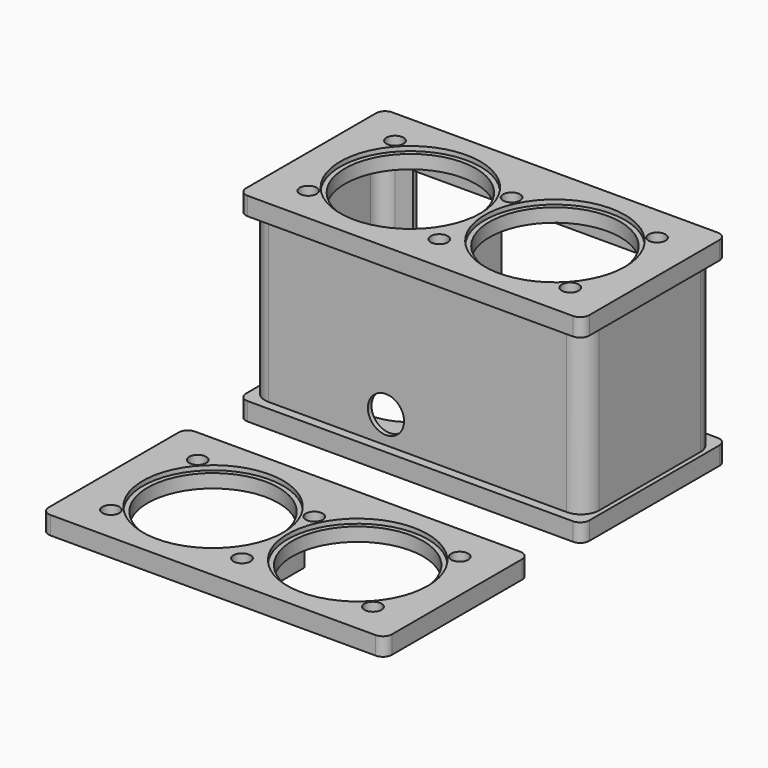
from build123d import *

# Parameters (mm, degrees)
F0_W      = 482.6
F0_H      = 254
F1_DEPTH  = 25.4
F2_W      = 12.7
F2_H      = 63.5
F3_DEPTH  = 228.6
F4_W      = 482.6
F4_H      = 254
F5_DEPTH  = 25.4
F6_R      = 25.4
F7_DEPTH  = 6.35
F9_R      = 91.948
F9_R_2    = 11.938
F10_DEPTH = 25.4
F9_R_3    = 98.552
F11_DEPTH = 6.35
F12_R     = 69.85
F12_R_2   = 6.746875
F13_DEPTH = 25.4
F15_DEPTH = 25.4
F17_DEPTH = 25.4
F18_W     = 482.6
F18_H     = 254
F18_R     = 11.938
F18_R_2   = 98.552
F19_DEPTH = 25.4
F18_R_3   = 91.948
F20_DEPTH = 19.05
F21_W     = 12.7
F21_H     = 63.5
F22_DEPTH = 25.4
F23_R     = 12.7
F23_2_R   = 12.7


with BuildPart() as f1:
    # F0 (on Top) → F1 (new body)
    with BuildSketch(Plane.XY):
        Rectangle(F0_W, F0_H)
    extrude(amount=F1_DEPTH)

    # F2 (on face) → F3 (join)
    with BuildSketch(Plane.XY.offset(25.4)):
        with BuildLine():
            Line((-209.5499999999, -114.3), (209.5500000001, -114.3))
            ThreePointArc((209.5500000001, -114.3), (227.5105122422, -106.8605122421), (234.95, -88.9))
            Line((234.95, -88.9), (234.95, 88.9))
            ThreePointArc((234.95, 88.9), (227.5105122421, 106.8605122421), (209.55, 114.3))
            Line((209.55, 114.3), (184.1499999999, 114.3))
            Line((184.1499999999, 114.3), (184.1499999999, 107.95))
            Line((184.1499999999, 107.95), (209.5500000002, 107.95))
            ThreePointArc((209.5500000002, 107.95), (223.0203841818, 102.3703841816), (228.6000000002, 88.9))
            Line((228.6000000002, 88.9), (228.5999999998, -88.9))
            ThreePointArc((228.5999999998, -88.9), (223.0203841814, -102.3703841816), (209.5499999998, -107.95))
            Line((209.5499999998, -107.95), (-209.5500000002, -107.95))
            ThreePointArc((-209.5500000002, -107.95), (-223.0203841818, -102.3703841816), (-228.6000000002, -88.9))
            Line((-228.6000000002, -88.9), (-228.5999999998, 88.9))
            ThreePointArc((-228.5999999998, 88.9), (-223.0203841814, 102.3703841816), (-209.5499999998, 107.95))
            Line((-209.5499999998, 107.95), (-184.1380936859, 107.95))
            Line((-184.1380936859, 107.95), (-184.1500000001, 114.3))
            Line((-184.1500000001, 114.3), (-209.55, 114.3))
            ThreePointArc((-209.55, 114.3), (-227.5105122422, 106.8605122422), (-234.95, 88.9))
            Line((-234.95, 88.9), (-234.95, -88.9))
            ThreePointArc((-234.95, -88.9), (-227.5105122421, -106.8605122421), (-209.5499999999, -114.3))
        make_face()
        with Locations((0, -6.35)):
            Rectangle(F2_W, F2_H)
    extrude(amount=F3_DEPTH)

    # F4 (on face) → F5 (join)
    with BuildSketch(Plane.XY.offset(254)):
        Rectangle(F4_W, F4_H)
    extrude(amount=F5_DEPTH)

    # F6 (on face) → F7 (cut)
    with BuildSketch(Plane.XZ.offset(114.3)):
        with Locations((-44.45, 63.5)):
            Circle(F6_R)
    extrude(amount=-F7_DEPTH, mode=Mode.SUBTRACT)

    # F9 (on face) → F10 (cut)
    with BuildSketch(Plane.XY.offset(279.4)):
        with Locations((-101.6, 0)):
            Circle(F9_R)
        with Locations((101.6, 0)):
            Circle(F9_R)
        with Locations((184.15, 76.2)):
            Circle(F9_R_2)
        with Locations((184.15, -76.2)):
            Circle(F9_R_2)
        with Locations((0, -76.2)):
            Circle(F9_R_2)
        with Locations((0, 50.8)):
            Circle(F9_R_2)
        with Locations((-184.15, 76.2)):
            Circle(F9_R_2)
        with Locations((-184.15, -76.2)):
            Circle(F9_R_2)
    extrude(amount=-F10_DEPTH, mode=Mode.SUBTRACT)

    # F9 (on face) → F11 (cut)
    with BuildSketch(Plane.XY.offset(279.4)):
        with Locations((-101.6, 0)):
            Circle(F9_R_3)
        with Locations((-101.6, 0)):
            Circle(F9_R, mode=Mode.SUBTRACT)
        with Locations((101.6, 0)):
            Circle(F9_R_3)
        with Locations((101.6, 0)):
            Circle(F9_R, mode=Mode.SUBTRACT)
    extrude(amount=-F11_DEPTH, mode=Mode.SUBTRACT)

    # F12 (on face) → F13 (cut)
    with BuildSketch(Plane(origin=(0, 0, 0), x_dir=(1, 0, 0), z_dir=(0, 0, -1))):
        with Locations((101.6, 0)):
            Circle(F12_R)
        with Locations((165.1083712882, -63.5083712882)):
            Circle(F12_R_2)
        with Locations((165.1083712882, 63.5083712882)):
            Circle(F12_R_2)
        with Locations((38.0916287118, 63.5083712882)):
            Circle(F12_R_2)
        with Locations((38.0916287118, -63.5083712882)):
            Circle(F12_R_2)
        with Locations((-38.0916287118, -63.5083712882)):
            Circle(F12_R_2)
        with Locations((-101.6, 0)):
            Circle(F12_R)
        with Locations((-38.0916287118, 63.5083712882)):
            Circle(F12_R_2)
        with Locations((-165.1083712882, 63.5083712882)):
            Circle(F12_R_2)
        with Locations((-165.1083712882, -63.5083712882)):
            Circle(F12_R_2)
    extrude(amount=-F13_DEPTH, mode=Mode.SUBTRACT)

    # F23
    f23_edges = [f1.edges().sort_by_distance(p)[0] for p in [
        (241.3, -127, 266.7),
        (241.3, 127, 266.7),
        (241.3, 127, 12.7),
        (241.3, -127, 12.7),
        (-241.3, -127, 266.7),
        (-241.3, -127, 12.7),
        (-241.3, 127, 266.7),
        (-241.3, 127, 12.7),
    ]]
    fillet(f23_edges, radius=F23_R)


with BuildPart() as f15:
    # F14 (on face) → F15 (new body)
    with BuildSketch(Plane.XY.offset(25.4)):
        Polygon((-184.1410702644, 109.5375), (184.1500000001, 109.5375), (184.1500000001, 114.3), (-184.1500000001, 114.3), align=None)
    extrude(amount=F15_DEPTH)


with BuildPart() as f17:
    # F16 (on face) → F17 (new body)
    with BuildSketch(Plane(origin=(0, 0, 254), x_dir=(1, 0, 0), z_dir=(0, 0, -1))):
        Polygon((-184.1410702644, -109.5375), (-184.1500000001, -114.3), (184.1499999999, -114.3), (184.1499999999, -109.5375), align=None)
    extrude(amount=F17_DEPTH)


with BuildPart() as f19:
    # F18 (on Top) → F19 (new body)
    with BuildSketch(Plane.XY):
        with Locations((0, -346.596384281)):
            Rectangle(F18_W, F18_H)
        with Locations((-184.15, -422.796384281)):
            Circle(F18_R, mode=Mode.SUBTRACT)
        with Locations((0, -422.796384281)):
            Circle(F18_R, mode=Mode.SUBTRACT)
        with Locations((184.15, -422.796384281)):
            Circle(F18_R, mode=Mode.SUBTRACT)
        with Locations((-101.6, -346.596384281)):
            Circle(F18_R_2, mode=Mode.SUBTRACT)
        with Locations((-184.15, -270.396384281)):
            Circle(F18_R, mode=Mode.SUBTRACT)
        with Locations((101.6, -346.596384281)):
            Circle(F18_R_2, mode=Mode.SUBTRACT)
        with Locations((0, -295.796384281)):
            Circle(F18_R, mode=Mode.SUBTRACT)
        with Locations((184.15, -270.396384281)):
            Circle(F18_R, mode=Mode.SUBTRACT)
    extrude(amount=F19_DEPTH)

    # F18 (on Top) → F20 (join)
    with BuildSketch(Plane.XY):
        with Locations((-101.6, -346.596384281)):
            Circle(F18_R_2)
        with Locations((-101.6, -346.596384281)):
            Circle(F18_R_3, mode=Mode.SUBTRACT)
        with Locations((101.6, -346.596384281)):
            Circle(F18_R_2)
        with Locations((101.6, -346.596384281)):
            Circle(F18_R_3, mode=Mode.SUBTRACT)
    extrude(amount=F20_DEPTH)

    # F21 (on face) → F22 (join)
    with BuildSketch(Plane(origin=(0, 0, 0), x_dir=(1, 0, 0), z_dir=(0, 0, -1))):
        with Locations((0, 352.946384281)):
            Rectangle(F21_W, F21_H)
    extrude(amount=F22_DEPTH)

    # F23#2
    f23_2_edges = [f19.edges().sort_by_distance(p)[0] for p in [
        (241.3, -219.596384, 12.7),
        (241.3, -473.596384, 12.7),
        (-241.3, -473.596384, 12.7),
        (-241.3, -219.596384, 12.7),
    ]]
    fillet(f23_2_edges, radius=F23_2_R)


solid = Compound([f1.part, f15.part, f17.part, f19.part])
